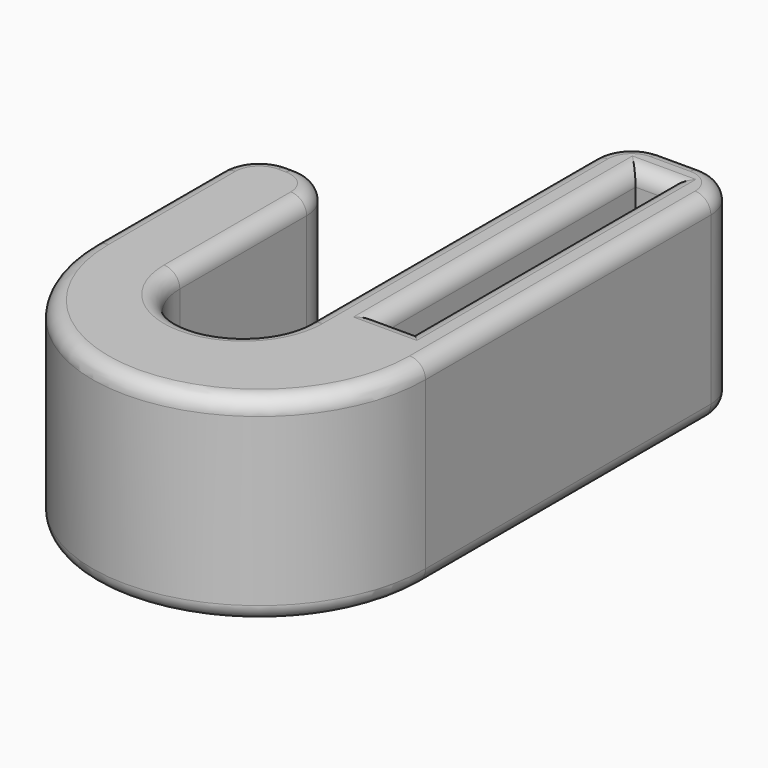
from build123d import *

# Parameters (mm, degrees)
F0_W     = 4
F0_H     = 40
F1_DEPTH = 25
F2_R     = 5
F3_R     = 2


with BuildPart() as f1:
    # F0 (on Top) → F1 (new body)
    with BuildSketch(Plane.XY):
        with BuildLine():
            Line((7.5, -25), (7.5, 25))
            Line((7.5, 25), (-7.5, 25))
            Line((-7.5, 25), (-7.5, -25))
            ThreePointArc((-7.5, -25), (-15.5, -33), (-23.5, -25))
            Line((-23.5, -25), (-23.5, 0))
            Line((-23.5, 0), (-34.5, 0))
            Line((-34.5, 0), (-34.5, -25))
            ThreePointArc((-34.5, -25), (-13.5, -46), (7.5, -25))
        make_face()
        Rectangle(F0_W, F0_H, mode=Mode.SUBTRACT)
    extrude(amount=F1_DEPTH)

    # F2
    f2_edges = [f1.edges().sort_by_distance(p)[0] for p in [
        (-7.5, 25, 12.5),
        (7.5, 25, 12.5),
        (-23.5, 0, 12.5),
        (-34.5, 0, 12.5),
    ]]
    fillet(f2_edges, radius=F2_R)

    # F3
    f3_edges = [f1.edges().sort_by_distance(p)[0] for p in [
        (7.5, -2.5, 25),
        (6.035534, 23.535534, 25),
        (-13.5, -46, 25),
        (0, 25, 25),
        (-34.5, -15, 25),
        (-6.035534, 23.535534, 25),
        (-33.035534, -1.464466, 25),
        (-7.5, -2.5, 25),
        (-29, 0, 25),
        (-15.5, -33, 25),
        (-24.964466, -1.464466, 25),
        (-23.5, -15, 25),
        (2, 0, 25),
        (0, -20, 25),
        (-2, 0, 25),
        (0, 20, 25),
        (7.5, -2.5, 0),
        (6.035534, 23.535534, 0),
        (-13.5, -46, 0),
        (0, 25, 0),
        (-34.5, -15, 0),
        (-6.035534, 23.535534, 0),
        (-33.035534, -1.464466, 0),
        (-7.5, -2.5, 0),
        (-29, 0, 0),
        (-15.5, -33, 0),
        (-24.964466, -1.464466, 0),
        (-23.5, -15, 0),
        (2, 0, 0),
        (0, -20, 0),
        (-2, 0, 0),
        (0, 20, 0),
    ]]
    fillet(f3_edges, radius=F3_R)


solid = f1.part
